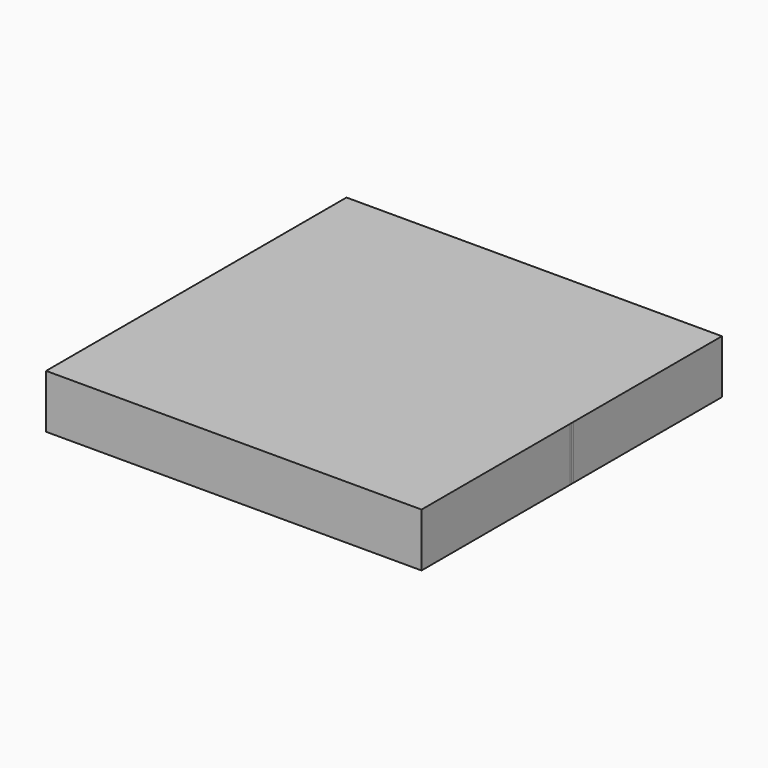
from build123d import *

# Parameters (mm, degrees)
F1_DEPTH = 25.4


with BuildPart() as f1:
    # F0 (on Top) → F1 (new body)
    with BuildSketch(Plane.XY):
        with BuildLine():
            Line((10.6712168168, 77.4665550828), (-78.2361279793, 77.4665550828))
            Line((-78.2361279793, 77.4665550828), (-78.2361279793, -11.4334449172))
            Line((-78.2361279793, -11.4334449172), (-78.2287839368, -11.4334449172))
            ThreePointArc((-78.2287839368, -11.4334449172), (-52.1905765178, 51.4283481967), (10.6712168168, 77.4665550828))
        make_face()
        with BuildLine():
            Line((99.5638720207, 77.4665550828), (10.6712168168, 77.4665550828))
            ThreePointArc((10.6712168168, 77.4665550828), (73.1277042953, 51.8310560111), (99.5638720207, -10.29076525))
            Line((99.5638720207, -10.29076525), (99.5638720207, 77.4665550828))
        make_face()
        with BuildLine():
            ThreePointArc((99.5638720207, -10.29076525), (73.1277042953, 51.8310560111), (10.6712168168, 77.4665550828))
            ThreePointArc((10.6712168168, 77.4665550828), (-52.1905765178, 51.4283481967), (-78.2287839368, -11.4334449172))
            ThreePointArc((-78.2287839368, -11.4334449172), (-52.1905767843, -74.2952377647), (10.6712160632, -100.3334449172))
            ThreePointArc((10.6712160632, -100.3334449172), (73.1277040272, -74.6979461103), (99.5638720207, -12.5761245844))
            Line((99.5638720207, -12.5761245844), (99.5638720207, -10.29076525))
        make_face()
        with BuildLine():
            Line((-78.2287839368, -11.4334449172), (-78.2361279793, -11.4334449172))
            Line((-78.2361279793, -11.4334449172), (-78.2361279793, -100.3334449172))
            Line((-78.2361279793, -100.3334449172), (10.6712160632, -100.3334449172))
            ThreePointArc((10.6712160632, -100.3334449172), (-52.1905767843, -74.2952377647), (-78.2287839368, -11.4334449172))
        make_face()
        with BuildLine():
            ThreePointArc((99.5712160632, -11.4334449172), (99.5693800336, -10.8620932836), (99.5638720207, -10.29076525))
            Line((99.5638720207, -10.29076525), (99.5638720207, -12.5761245844))
            ThreePointArc((99.5638720207, -12.5761245844), (99.5693800336, -12.0047965508), (99.5712160632, -11.4334449172))
        make_face()
        with BuildLine():
            Line((99.5638720207, -100.3334449172), (99.5638720207, -12.5761245844))
            ThreePointArc((99.5638720207, -12.5761245844), (73.1277040272, -74.6979461103), (10.6712160632, -100.3334449172))
            Line((10.6712160632, -100.3334449172), (99.5638720207, -100.3334449172))
        make_face()
    extrude(amount=F1_DEPTH)


solid = f1.part
